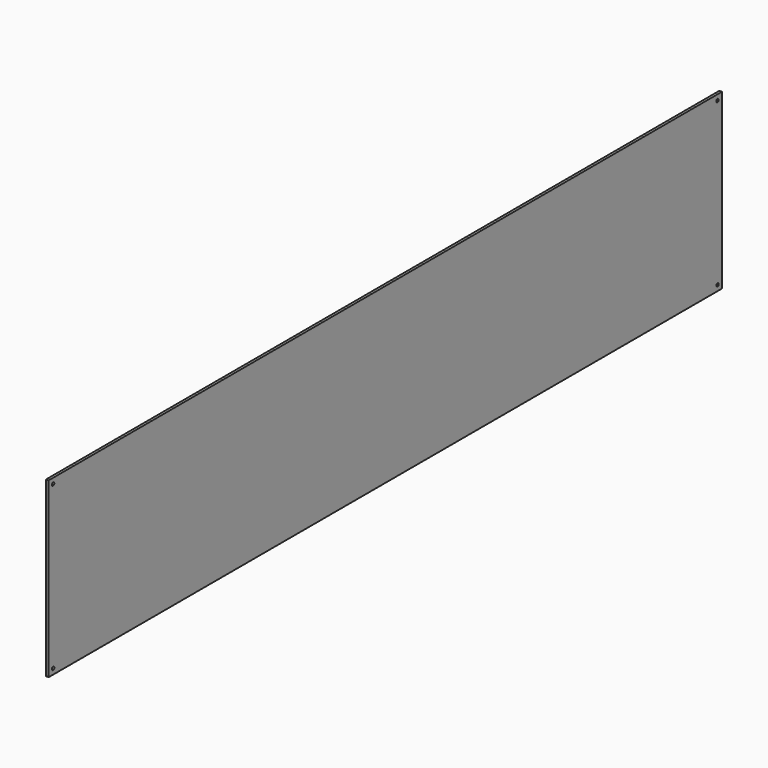
from build123d import *

# Parameters (mm, degrees)
F0_W     = 1938.4
F0_H     = 399.2
F1_DEPTH = 6
F3_D     = 7
F3_DEPTH = 100


with BuildPart() as f1:
    # F0 (on Right) → F1 (new body)
    with BuildSketch(Plane.YZ):
        Rectangle(F0_W, F0_H)
    extrude(amount=F1_DEPTH)

    # F3
    with Locations(Plane.YZ.offset(6)):
        with Locations((-956.5, 186.9), (-956.5, -186.9), (956.5, 186.9), (956.5, -186.9)):
            Hole(F3_D / 2, depth=F3_DEPTH)


solid = f1.part
